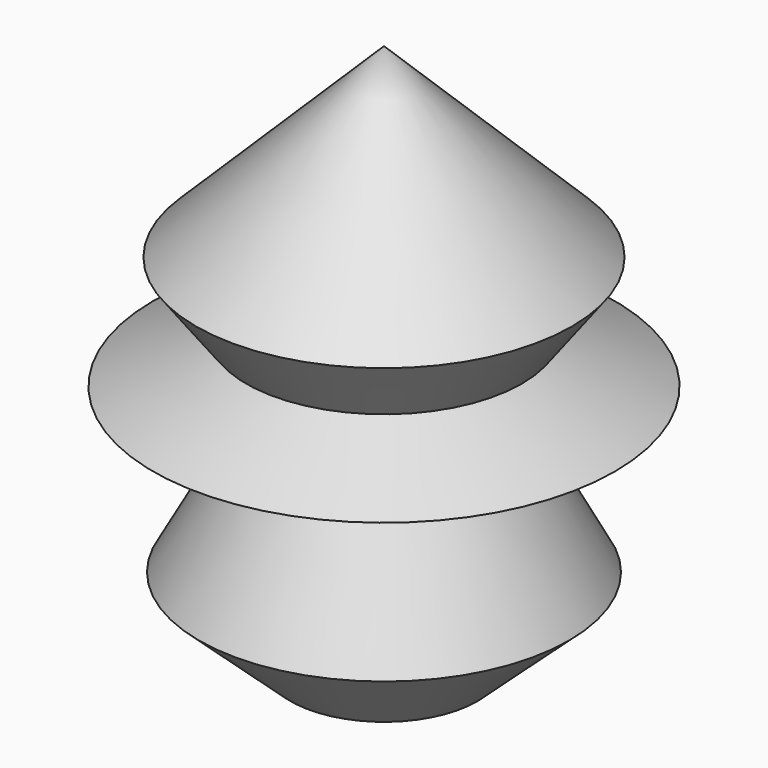
from build123d import *


with BuildPart() as f1:
    # F0 (on Front) → F1 (revolve)
    with BuildSketch(Plane.XZ):
        Polygon((0, 53.555083), (0, 0), (0, -14.840565), (12.443952, -19.080726), (24.611371, -8.019436), (16.499758, 6.913307), (15.762338, 11.153467), (30.695081, 13.734437), (18.343307, 20.002501), (24.980081, 28.851531), align=None)
        Polygon((4.172736, 28.829098), (8.388145, 33.091694), (10.416049, 34.566533), (13.713074, 28.829098), (13.713074, 25.141235), align=None, mode=Mode.SUBTRACT)
    revolve(axis=Axis((0, 0, 26.777541), (0, 0, 1)))


solid = f1.part
